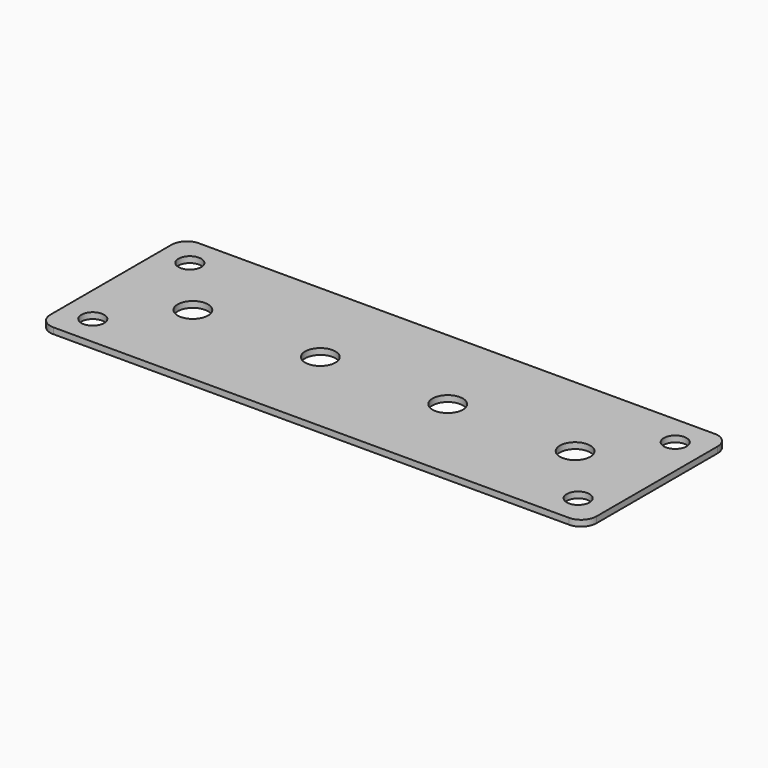
from build123d import *

# Parameters (mm, degrees)
F0_R     = 4.7625
F0_R_2   = 6.35
F1_DEPTH = 2.54


with BuildPart() as f1:
    # F0 (on Top) → F1 (new body)
    with BuildSketch(Plane.XY):
        with BuildLine():
            Line((107.95, 38.1), (-107.95, 38.1))
            ThreePointArc((-107.95, 38.1), (-112.440128, 36.240128), (-114.3, 31.75))
            Line((-114.3, 31.75), (-114.3, -31.75))
            ThreePointArc((-114.3, -31.75), (-112.440128, -36.240128), (-107.95, -38.1))
            Line((-107.95, -38.1), (107.95, -38.1))
            ThreePointArc((107.95, -38.1), (112.440128, -36.240128), (114.3, -31.75))
            Line((114.3, -31.75), (114.3, 31.75))
            ThreePointArc((114.3, 31.75), (112.440128, 36.240128), (107.95, 38.1))
        make_face()
        with Locations((-101.6, -25.4)):
            Circle(F0_R, mode=Mode.SUBTRACT)
        with Locations((101.6, -25.4)):
            Circle(F0_R, mode=Mode.SUBTRACT)
        with Locations((-80.01, 0)):
            Circle(F0_R_2, mode=Mode.SUBTRACT)
        with Locations((-26.67, 0)):
            Circle(F0_R_2, mode=Mode.SUBTRACT)
        with Locations((-101.6, 25.4)):
            Circle(F0_R, mode=Mode.SUBTRACT)
        with Locations((26.67, 0)):
            Circle(F0_R_2, mode=Mode.SUBTRACT)
        with Locations((80.01, 0)):
            Circle(F0_R_2, mode=Mode.SUBTRACT)
        with Locations((101.6, 25.4)):
            Circle(F0_R, mode=Mode.SUBTRACT)
    extrude(amount=F1_DEPTH)


solid = f1.part
